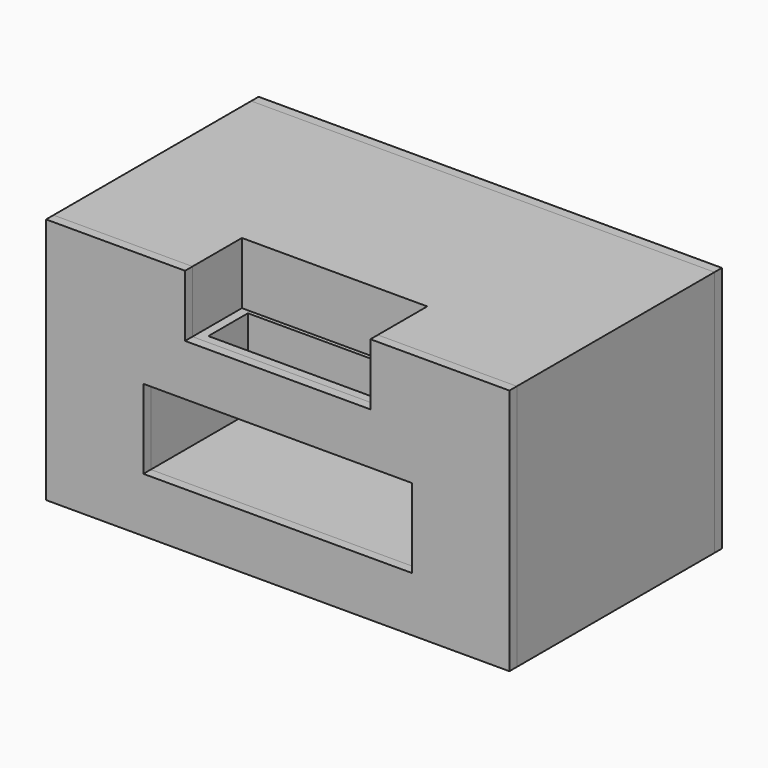
from build123d import *

# Parameters (mm, degrees)
F0_W      = 150
F0_H      = 80
F1_DEPTH  = 80
F2_W      = 30
F2_H      = 20
F3_DEPTH  = 20
F4_W      = 55
F4_H      = 16
F5_DEPTH  = 26.8
F6_W      = 86.9870632887
F6_H      = 25.6551727653
F7_DEPTH  = 76.5
F8_W      = 86.9870632887
F8_H      = 25.6551727653
F9_DEPTH  = 3
F10_W     = 150
F10_H     = 80
F11_DEPTH = 3


with BuildPart() as f1:
    # F0 (on Top) → F1 (new body)
    with BuildSketch(Plane.XY):
        Rectangle(F0_W, F0_H)
    extrude(amount=F1_DEPTH)

    # F2 (on face) → F3 (cut)
    with BuildSketch(Plane.XZ.offset(40)):
        with Locations((15, 70)):
            Rectangle(F2_W, F2_H)
        with Locations((-15, 70)):
            Rectangle(F2_W, F2_H)
    extrude(amount=-F3_DEPTH, mode=Mode.SUBTRACT)

    # F4 (on face) → F5 (cut)
    with BuildSketch(Plane.XY.offset(60)):
        with Locations((0.431034565, -29.2413806617)):
            Rectangle(F4_W, F4_H)
    extrude(amount=-F5_DEPTH, mode=Mode.SUBTRACT)

    # F6 (on face) → F7 (cut)
    with BuildSketch(Plane.XZ.offset(40)):
        with Locations((0, 30.560342595)):
            Rectangle(F6_W, F6_H)
    extrude(amount=-F7_DEPTH, mode=Mode.SUBTRACT)


with BuildPart() as f9:
    # F8 (on face) → F9 (new body)
    with BuildSketch(Plane.XZ.offset(40)):
        Polygon((75, 0), (75, 80), (30, 80), (30, 60), (-30, 60), (-30, 80), (-75, 80), (-75, 0), align=None)
        with Locations((0, 30.560342595)):
            Rectangle(F8_W, F8_H, mode=Mode.SUBTRACT)
    extrude(amount=F9_DEPTH)


with BuildPart() as f11:
    # F10 (on face) → F11 (new body)
    with BuildSketch(Plane(origin=(0, 40, 0), x_dir=(-1, 0, 0), z_dir=(0, 1, 0))):
        with Locations((0, 40)):
            Rectangle(F10_W, F10_H)
    extrude(amount=F11_DEPTH)


solid = Compound([f1.part, f9.part, f11.part])
